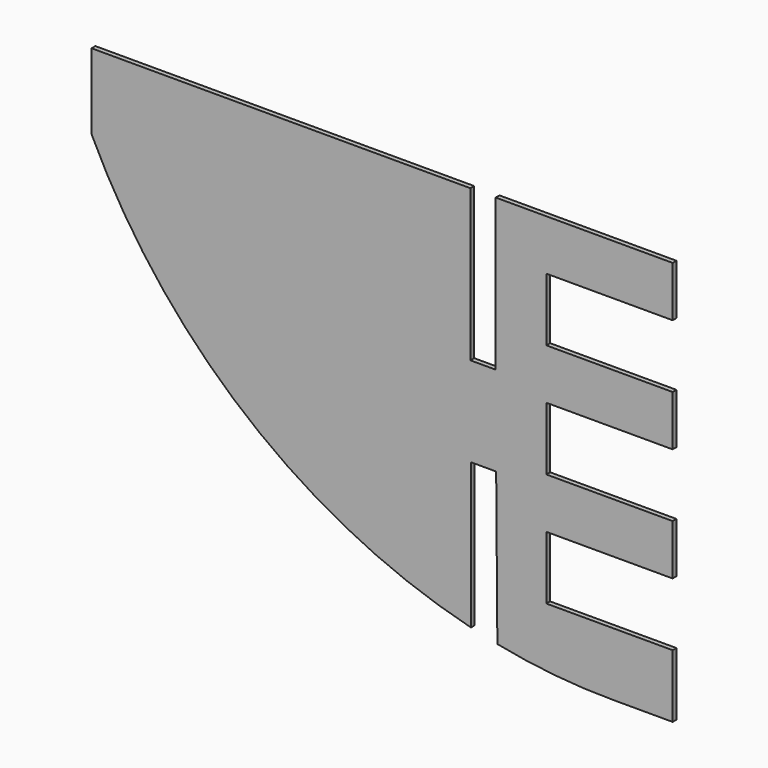
from build123d import *

# Parameters (mm, degrees)
F1_DEPTH = 4.7625


with BuildPart() as f1:
    # F0 (on Front) → F1 (new body)
    with BuildSketch(Plane.XZ):
        with BuildLine():
            Line((-203.352885, 0), (-584.352885, 0))
            Line((-584.352885, 0), (-584.352885, -76.2))
            ThreePointArc((-584.352885, -76.2), (-428.472536, -275.076647), (-202.814447, -388.782541))
            Line((-202.814447, -388.782541), (-202.814447, -242.426151))
            Line((-202.814447, -242.426151), (-177.463844, -242.426151))
            Line((-177.463844, -242.426151), (-176.26387, -394.821427))
            ThreePointArc((-176.26387, -394.821427), (-118.90188, -403.498096), (-60.96, -406.4))
            Line((-60.96, -406.4), (0, -406.4))
            Line((0, -406.4), (0, -342.9))
            Line((0, -342.9), (-127, -342.9))
            Line((-127, -342.9), (-127, -279.4))
            Line((-127, -279.4), (0, -279.4))
            Line((0, -279.4), (0, -228.6))
            Line((0, -228.6), (-127, -228.6))
            Line((-127, -228.6), (-127, -165.1))
            Line((-127, -165.1), (0, -165.1))
            Line((0, -165.1), (0, -114.3))
            Line((0, -114.3), (-127, -114.3))
            Line((-127, -114.3), (-127, -50.8))
            Line((-127, -50.8), (0, -50.8))
            Line((0, -50.8), (0, 0))
            Line((0, 0), (-177.952885, 0))
            Line((-177.952885, 0), (-177.952885, -152.4))
            Line((-177.952885, -152.4), (-203.352885, -152.4))
            Line((-203.352885, -152.4), (-203.352885, 0))
        make_face()
    extrude(amount=F1_DEPTH)


solid = f1.part
